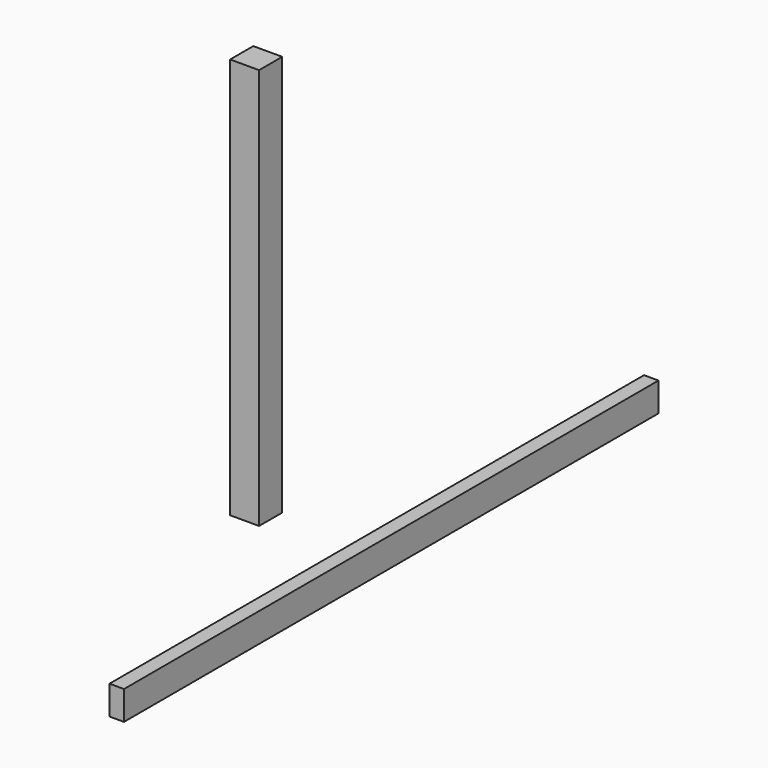
from build123d import *

# Parameters (mm, degrees)
F0_W     = 88.9
F0_H     = 88.9
F1_DEPTH = 1231.9
F2_W     = 2051.05
F2_H     = 88.9
F3_DEPTH = 44.45


with BuildPart() as f1:
    # F0 (on Top) → F1 (new body)
    with BuildSketch(Plane.XY):
        with Locations((-44.45, 44.45)):
            Rectangle(F0_W, F0_H)
    extrude(amount=F1_DEPTH)


with BuildPart() as f3:
    # F2 (on Right) → F3 (new body)
    with BuildSketch(Plane.YZ):
        with Locations((451.577589, -237.292629)):
            Rectangle(F2_W, F2_H)
    extrude(amount=F3_DEPTH)


solid = Compound([f1.part, f3.part])
